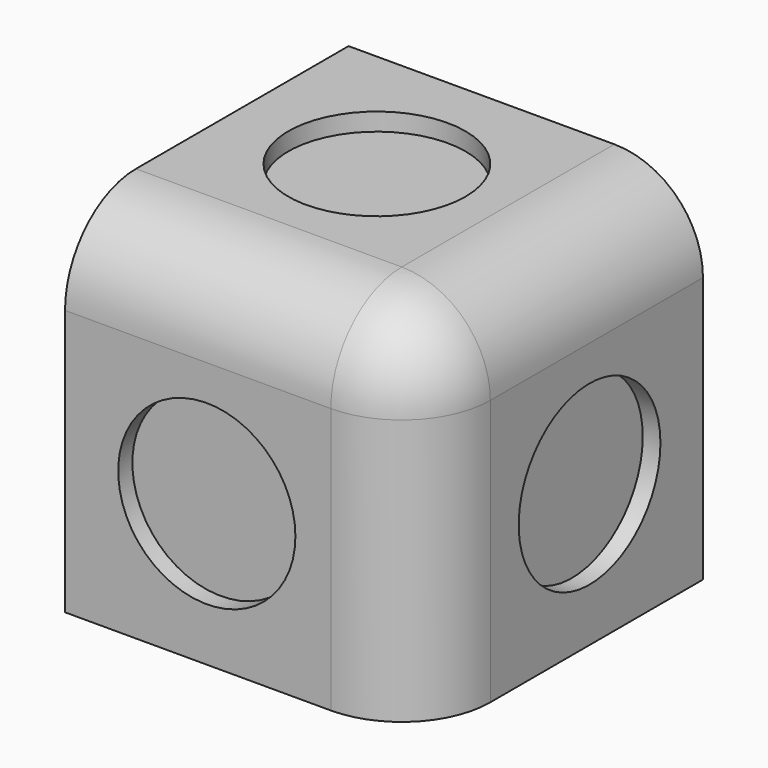
from build123d import *

# Parameters (mm, degrees)
F0_W     = 100
F0_H     = 100
F1_DEPTH = 100
F2_R     = 25
F3_T     = -10
F4_R     = 25
F5_DEPTH = 5
F6_R     = 25
F7_DEPTH = 5
F8_R     = 25
F9_DEPTH = 5


with BuildPart() as f1:
    # F0 (on Front) → F1 (new body)
    with BuildSketch(Plane.XZ):
        Rectangle(F0_W, F0_H)
    extrude(amount=F1_DEPTH)

    # F2
    f2_edges = [f1.edges().sort_by_distance(p)[0] for p in [
        (0, -100, 50),
        (50, -50, 50),
        (50, -100, 0),
    ]]
    fillet(f2_edges, radius=F2_R)

    # F3
    f3_openings = [f1.faces().sort_by_distance(p)[0] for p in [
        (-50, -49.396169, -0.603831),
        (-0.603831, 0, -0.603831),
        (-0.603831, -49.396169, -50),
    ]]
    offset(amount=F3_T, openings=f3_openings)

    # F4 (on face) → F5 (cut)
    with BuildSketch(Plane.XZ.offset(100)):
        with Locations((-10, -10)):
            Circle(F4_R)
    extrude(amount=-F5_DEPTH, mode=Mode.SUBTRACT)

    # F6 (on face) → F7 (cut)
    with BuildSketch(Plane.YZ.offset(50)):
        with Locations((-40, -10)):
            Circle(F6_R)
    extrude(amount=-F7_DEPTH, mode=Mode.SUBTRACT)

    # F8 (on face) → F9 (cut)
    with BuildSketch(Plane.XY.offset(50)):
        with Locations((-10, -40)):
            Circle(F8_R)
    extrude(amount=-F9_DEPTH, mode=Mode.SUBTRACT)


solid = f1.part
